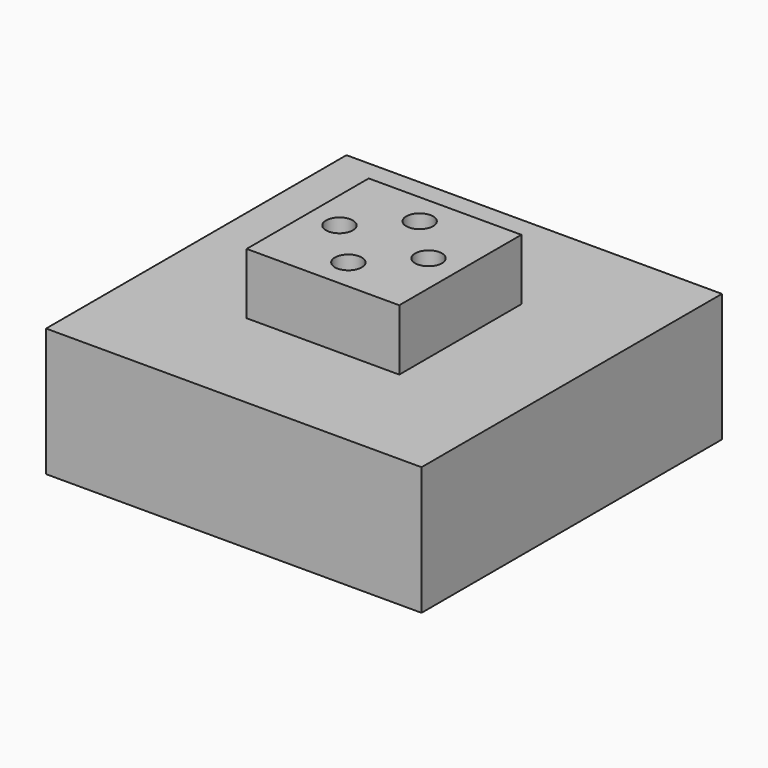
from build123d import *

# Parameters (mm, degrees)
SKETCH_W      = 61.5
SKETCH_H      = 61.5
PAD_DEPTH     = 2
SKETCH001_W   = 61.5
SKETCH001_H   = 61.5
SKETCH001_W_2 = 57.9
SKETCH001_H_2 = 57.9
PAD001_DEPTH  = 19
SKETCH002_W   = 25
SKETCH002_H   = 25
PAD002_DEPTH  = 10
SKETCH003_R   = 2.2
POCKET_DEPTH  = 31.001


with BuildPart() as part:
    # Sketch → Pad (new body)
    with BuildSketch(Plane.XY):
        Rectangle(SKETCH_W, SKETCH_H)
    extrude(amount=PAD_DEPTH)

    # Sketch001 → Pad001 (new body)
    with BuildSketch(Plane(origin=(0, 0, 0), x_dir=(1, 0, 0), z_dir=(0, 0, -1))):
        Rectangle(SKETCH001_W, SKETCH001_H)
        Rectangle(SKETCH001_W_2, SKETCH001_H_2, mode=Mode.SUBTRACT)
    extrude(amount=PAD001_DEPTH)

    # Sketch002 → Pad002 (new body)
    with BuildSketch(Plane.XY.offset(2)):
        Rectangle(SKETCH002_W, SKETCH002_H)
    extrude(amount=PAD002_DEPTH)

    # Sketch003 → Pocket (cut, through all)
    with BuildSketch(Plane.XY.offset(12)):
        with Locations((-7.3, 0)):
            Circle(SKETCH003_R)
        with Locations((7.3, 0)):
            Circle(SKETCH003_R)
        with Locations((0, 7.3)):
            Circle(SKETCH003_R)
        with Locations((0, -7.3)):
            Circle(SKETCH003_R)
    extrude(amount=-POCKET_DEPTH, mode=Mode.SUBTRACT)


solid = part.part
